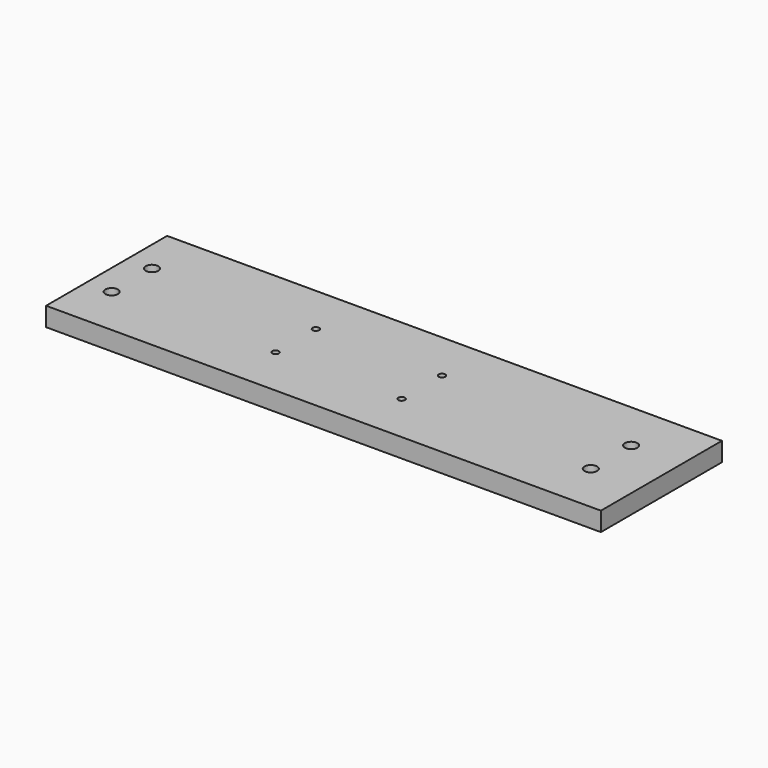
from build123d import *

# Parameters (mm, degrees)
F0_W     = 279.4
F0_H     = 38.1
F0_R     = 3.175
F0_R_2   = 1.651
F1_DEPTH = 4.7625


with BuildPart() as f1:
    # F0 (on Top) → F1 (new body, symmetric)
    with BuildSketch(Plane.XY):
        with Locations((139.7, 19.05)):
            Rectangle(F0_W, F0_H)
        with Locations((12.7, 25.4)):
            Circle(F0_R, mode=Mode.SUBTRACT)
        with Locations((95.25, 25.4)):
            Circle(F0_R_2, mode=Mode.SUBTRACT)
        with Locations((158.75, 25.4)):
            Circle(F0_R_2, mode=Mode.SUBTRACT)
        with Locations((254, 25.4)):
            Circle(F0_R, mode=Mode.SUBTRACT)
        with Locations((139.7, 57.15)):
            Rectangle(F0_W, F0_H)
        with Locations((12.7, 50.8)):
            Circle(F0_R, mode=Mode.SUBTRACT)
        with Locations((95.25, 50.8)):
            Circle(F0_R_2, mode=Mode.SUBTRACT)
        with Locations((158.75, 50.8)):
            Circle(F0_R_2, mode=Mode.SUBTRACT)
        with Locations((254, 50.8)):
            Circle(F0_R, mode=Mode.SUBTRACT)
        with Locations((139.7, 57.15)):
            Rectangle(F0_W, F0_H)
        with Locations((12.7, 50.8)):
            Circle(F0_R, mode=Mode.SUBTRACT)
        with Locations((95.25, 50.8)):
            Circle(F0_R_2, mode=Mode.SUBTRACT)
        with Locations((158.75, 50.8)):
            Circle(F0_R_2, mode=Mode.SUBTRACT)
        with Locations((254, 50.8)):
            Circle(F0_R, mode=Mode.SUBTRACT)
    extrude(amount=F1_DEPTH, both=True)


solid = f1.part
